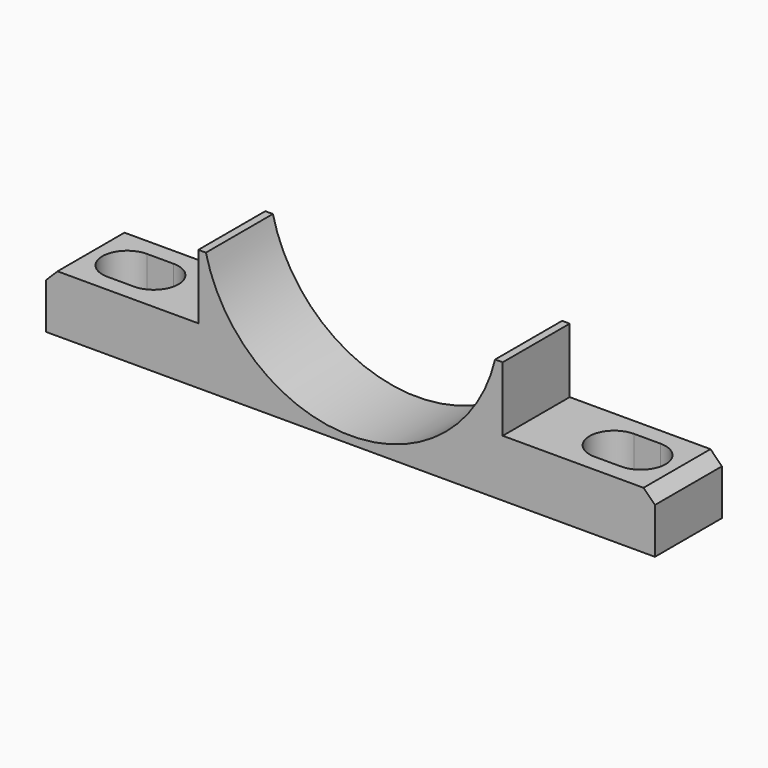
from build123d import *

# Parameters (mm, degrees)
F1_DEPTH = 22
F2_SIZE  = 3
F4_DEPTH = 15.001


with BuildPart() as f1:
    # F0 (on Front) → F1 (new body)
    with BuildSketch(Plane.XZ):
        with BuildLine():
            Line((-80, -7.5), (80, -7.5))
            Line((80, -7.5), (80, 7.5))
            Line((80, 7.5), (40, 7.5))
            Line((40, 7.5), (40, 24.5))
            Line((40, 24.5), (38, 24.5))
            ThreePointArc((38, 24.5), (0, -5.5), (-38, 24.5))
            Line((-38, 24.5), (-40, 24.5))
            Line((-40, 24.5), (-40, 7.5))
            Line((-40, 7.5), (-80, 7.5))
            Line((-80, 7.5), (-80, -7.5))
        make_face()
    extrude(amount=F1_DEPTH)

    # F2
    f2_edges = [f1.edges().sort_by_distance(p)[0] for p in [
        (-80, -11, 7.5),
        (80, -11, 7.5),
    ]]
    chamfer(f2_edges, length=F2_SIZE)

    # F3 (on face) → F4 (cut, through all)
    with BuildSketch(Plane.XY.offset(7.5)):
        with BuildLine():
            Line((-60.5, -4.5), (-67.5, -4.5))
            ThreePointArc((-67.5, -4.5), (-74, -11), (-67.5, -17.5))
            Line((-67.5, -17.5), (-60.5, -17.5))
            ThreePointArc((-60.5, -17.5), (-54, -11), (-60.5, -4.5))
        make_face()
        with BuildLine():
            ThreePointArc((60.5, -4.5), (54, -11), (60.5, -17.5))
            Line((60.5, -17.5), (67.5, -17.5))
            ThreePointArc((67.5, -17.5), (74, -11), (67.5, -4.5))
            Line((67.5, -4.5), (60.5, -4.5))
        make_face()
    extrude(amount=-F4_DEPTH, mode=Mode.SUBTRACT)


solid = f1.part
